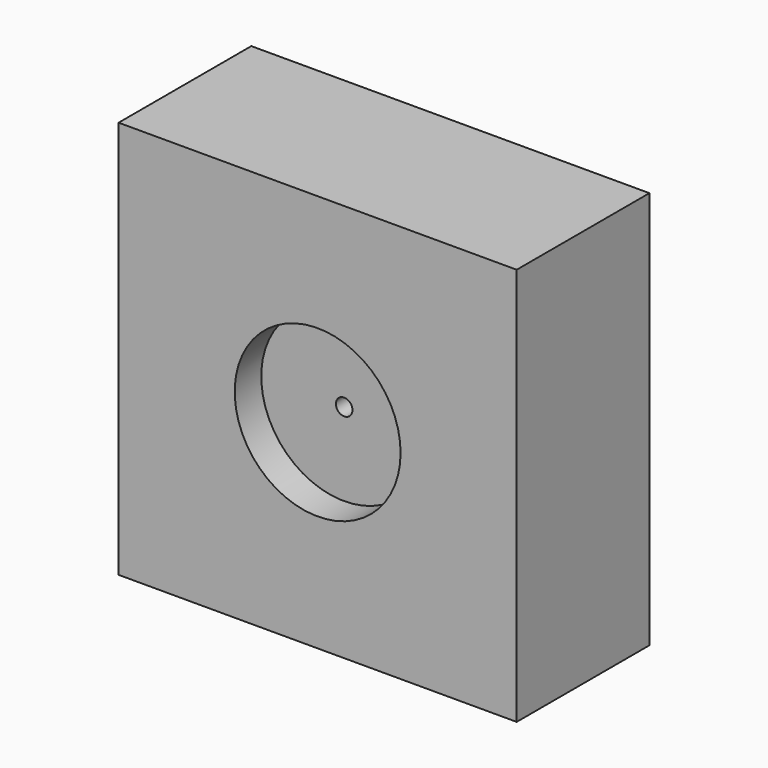
from build123d import *

# Parameters (mm, degrees)
F0_W     = 120
F0_H     = 120
F1_DEPTH = 25
F2_R     = 25
F3_DEPTH = 10
F5_D     = 5


with BuildPart() as f1:
    # F0 (on Front) → F1 (new body, symmetric)
    with BuildSketch(Plane.XZ):
        Rectangle(F0_W, F0_H)
    extrude(amount=F1_DEPTH, both=True)

    # F2 (on face) → F3 (cut)
    with BuildSketch(Plane.XZ.offset(25)):
        Circle(F2_R)
    extrude(amount=-F3_DEPTH, mode=Mode.SUBTRACT)

    # F5 (through all)
    with Locations(Plane.XZ.offset(15)):
        with Locations((0, 0)):
            Hole(F5_D / 2)


solid = f1.part
